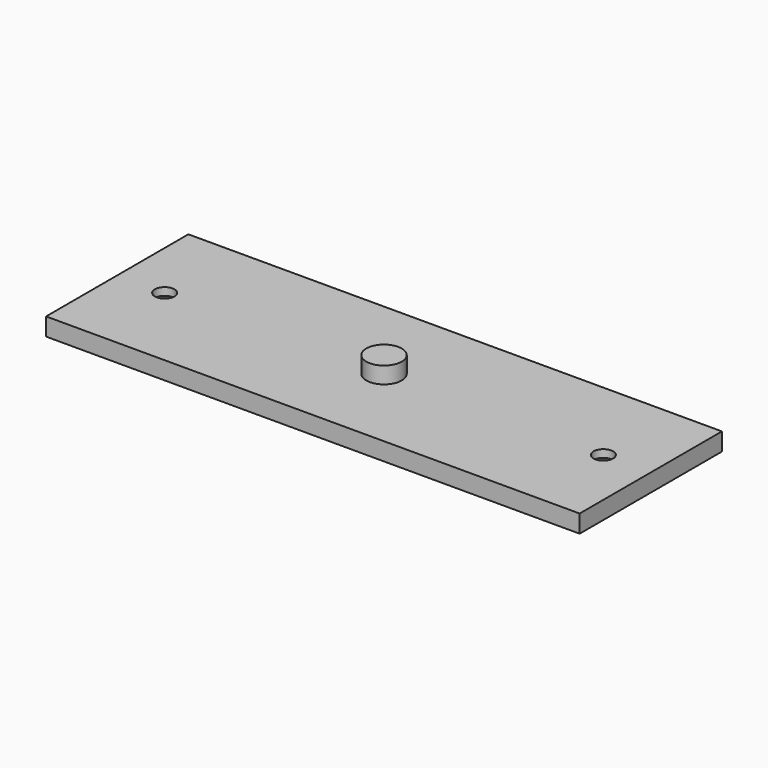
from build123d import *

# Parameters (mm, degrees)
F1_DEPTH       = 3
F2_DEPTH       = 5.8
F3_D           = 3.3
F3_CSINK_D     = 6.72
F3_CSINK_ANGLE = 90


with BuildPart() as f1:
    # F0 (on Top) → F1 (new body)
    with BuildSketch(Plane.XY):
        with BuildLine():
            ThreePointArc((-3, 0), (0, 3), (3, 0))
            Line((3, 0), (45, 0))
            Line((45, 0), (45, 15))
            Line((45, 15), (-45, 15))
            Line((-45, 15), (-45, 0))
            Line((-45, 0), (-3, 0))
        make_face()
        with BuildLine():
            Line((45, 0), (3, 0))
            ThreePointArc((3, 0), (0, -3), (-3, 0))
            Line((-3, 0), (-45, 0))
            Line((-45, 0), (-45, -15))
            Line((-45, -15), (45, -15))
            Line((45, -15), (45, 0))
        make_face()
    extrude(amount=F1_DEPTH)

    # F0 (on Top) → F2 (join)
    with BuildSketch(Plane.XY):
        with BuildLine():
            Line((-3, 0), (3, 0))
            ThreePointArc((3, 0), (0, 3), (-3, 0))
        make_face()
        with BuildLine():
            ThreePointArc((-3, 0), (0, -3), (3, 0))
            Line((3, 0), (-3, 0))
        make_face()
    extrude(amount=F2_DEPTH)

    # F3 (through all)
    with Locations(Plane(origin=(0, 0, 0), x_dir=(1, 0, 0), z_dir=(0, 0, -1))):
        with Locations((-37, 0), (37, 0)):
            CounterSinkHole(F3_D / 2, F3_CSINK_D / 2, counter_sink_angle=F3_CSINK_ANGLE)


solid = f1.part
